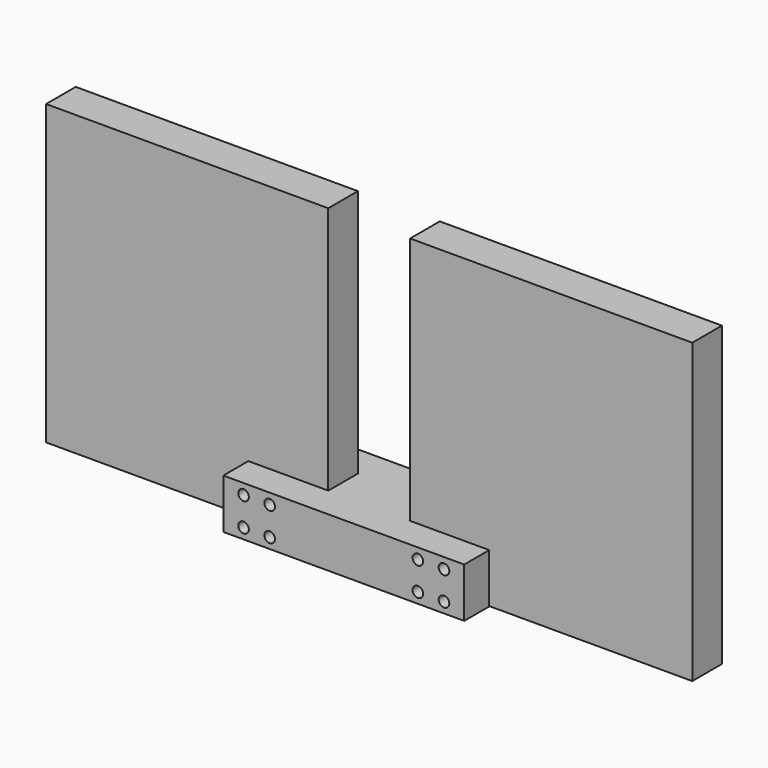
from build123d import *

# Parameters (mm, degrees)
F1_DEPTH = 25
F2_R     = 2.667913
F3_DEPTH = 25
F4_R     = 2.667913
F5_DEPTH = 25
F6_W     = 142.071443
F6_H     = 18.659153
F7_DEPTH = 150
F8_DEPTH = 150


with BuildPart() as f1:
    # F0 (on Top) → F1 (new body)
    with BuildSketch(Plane.XY):
        Polygon((-60.646169, 9.490431), (-20.369707, 9.490431), (-20.369707, -9.490431), (-60.646169, -9.490431), (-60.646169, -25.230657), (0, -25.230657), (60.646169, -25.230657), (60.646169, -9.490431), (20.369707, -9.490431), (20.369707, 9.490431), (60.646169, 9.490431), (60.646169, 25.230657), (0, 25.230657), (-60.646169, 25.230657), align=None)
    extrude(amount=F1_DEPTH)

    # F2 (on face) → F3 (cut)
    with BuildSketch(Plane(origin=(0, 25.230657, 0), x_dir=(-1, 0, 0), z_dir=(0, 1, 0))):
        with Locations((50.461315, 5.323622)):
            Circle(F2_R)
        with Locations((37.318457, 5.323622)):
            Circle(F2_R)
        with Locations((50.461315, 19.676378)):
            Circle(F2_R)
        with Locations((37.318457, 19.676378)):
            Circle(F2_R)
        with Locations((-37.318457, 5.323622)):
            Circle(F2_R)
        with Locations((-50.461315, 5.323622)):
            Circle(F2_R)
        with Locations((-50.461315, 19.676378)):
            Circle(F2_R)
        with Locations((-37.318457, 19.676378)):
            Circle(F2_R)
    extrude(amount=-F3_DEPTH, mode=Mode.SUBTRACT)

    # F4 (on face) → F5 (cut)
    with BuildSketch(Plane.XZ.offset(25.230657)):
        with Locations((50.461315, 5.263057)):
            Circle(F4_R)
        with Locations((50.461315, 19.615812)):
            Circle(F4_R)
        with Locations((37.318457, 5.263057)):
            Circle(F4_R)
        with Locations((37.318457, 19.615812)):
            Circle(F4_R)
        with Locations((-37.318457, 5.263057)):
            Circle(F4_R)
        with Locations((-37.318457, 19.615812)):
            Circle(F4_R)
        with Locations((-50.461315, 5.263057)):
            Circle(F4_R)
        with Locations((-50.461315, 19.615812)):
            Circle(F4_R)
    extrude(amount=-F5_DEPTH, mode=Mode.SUBTRACT)


with BuildPart() as f7:
    # F6 (on Top) → F7 (new body)
    with BuildSketch(Plane.XY):
        with Locations((-91.644174, 0.090787)):
            Rectangle(F6_W, F6_H)
    extrude(amount=F7_DEPTH)


with BuildPart() as f8:
    # F6 (on Top) → F8 (new body)
    with BuildSketch(Plane.XY):
        with Locations((91.644174, 0.090787)):
            Rectangle(F6_W, F6_H)
    extrude(amount=F8_DEPTH)


solid = Compound([f1.part, f7.part, f8.part])
